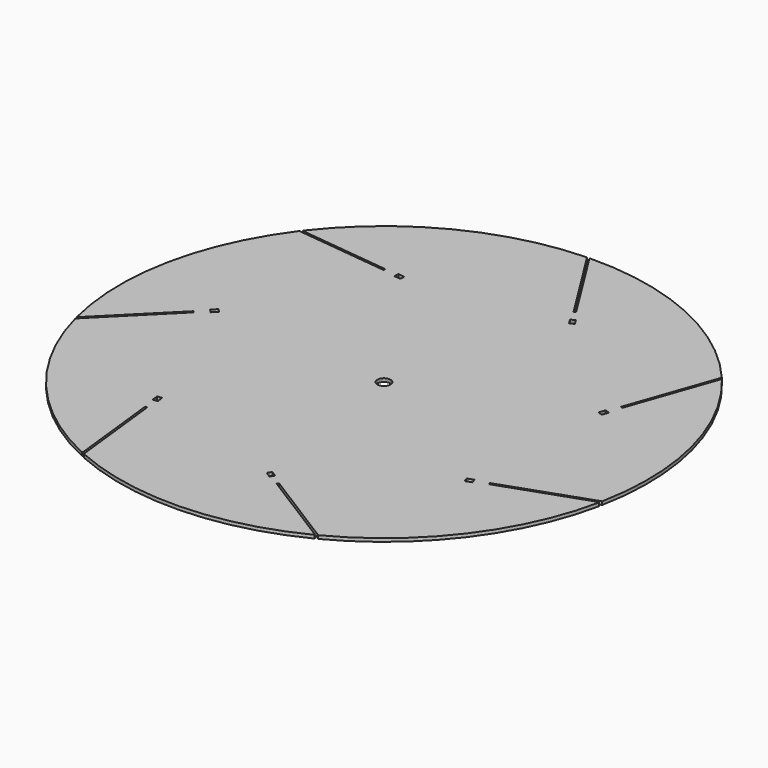
from build123d import *

# Parameters (mm, degrees)
F0_R          = 5
F1_DEPTH      = 1.25
F1_DEPTH_BACK = 1.25


with BuildPart() as f1:
    # F0 (on Top) → F1 (new body, two sides)
    with BuildSketch(Plane.XY) as f1_sk:
        with BuildLine():
            Line((-193.64496, -48.269231), (-144.827721, 0.548008))
            Line((-144.827721, 0.548008), (-143.731706, -0.548008))
            Line((-143.731706, -0.548008), (-193.552665, -50.368296))
            ThreePointArc((-193.552665, -50.368296), (-153.272634, -128.48028), (-83.395599, -181.782841))
            Line((-83.395599, -181.782841), (-82.996864, -181.493909))
            Line((-82.996864, -181.493909), (-90.726667, -112.890004))
            Line((-90.726667, -112.890004), (-89.186413, -112.716459))
            Line((-89.186413, -112.716459), (-81.298203, -182.730495))
            ThreePointArc((-81.298203, -182.730495), (4.886394, -199.940324), (90.127633, -178.541862))
            Line((90.127633, -178.541862), (90.150343, -178.049972))
            Line((90.150343, -178.049972), (31.694198, -141.319541))
            Line((31.694198, -141.319541), (32.518847, -140.007118))
            Line((32.518847, -140.007118), (92.176243, -177.492904))
            ThreePointArc((92.176243, -177.492904), (159.366647, -120.841226), (195.783698, -40.855219))
            Line((195.783698, -40.855219), (195.413283, -40.530774))
            Line((195.413283, -40.530774), (130.249465, -63.33258))
            Line((130.249465, -63.33258), (129.737532, -61.869561))
            Line((129.737532, -61.869561), (196.240878, -38.599537))
            ThreePointArc((196.240878, -38.599537), (193.841344, 49.25378), (154.011425, 127.596237))
            Line((154.011425, 127.596237), (153.526814, 127.508923))
            Line((153.526814, 127.508923), (130.725008, 62.345105))
            Line((130.725008, 62.345105), (129.261989, 62.857037))
            Line((129.261989, 62.857037), (152.532909, 129.360069))
            ThreePointArc((152.532909, 129.360069), (82.350335, 182.259685), (-3.733812, 199.965124))
            Line((-3.733812, 199.965124), (-3.967697, 199.5318))
            Line((-3.967697, 199.5318), (32.762734, 141.075654))
            Line((32.762734, 141.075654), (31.450311, 140.251005))
            Line((31.450311, 140.251005), (-6.034672, 199.908905))
            ThreePointArc((-6.034672, 199.908905), (-91.151376, 178.02033), (-158.666634, 121.756194))
            Line((-158.666634, 121.756194), (-158.473672, 121.303162))
            Line((-158.473672, 121.303162), (-89.869768, 113.573359))
            Line((-89.869768, 113.573359), (-90.043313, 112.033105))
            Line((-90.043313, 112.033105), (-160.057242, 119.922257))
            ThreePointArc((-160.057242, 119.922257), (-196.013462, 39.728035), (-194.119464, -48.137634))
            Line((-194.119464, -48.137634), (-193.64496, -48.269231))
        make_face()
        Polygon((-91.636007, -97.897549), (-89.872168, -97.698812), (-89.312346, -102.667373), (-91.076185, -102.86611), (-92.840024, -103.064847), (-93.399847, -98.096286), align=None, mode=Mode.SUBTRACT)
        Circle(F0_R, mode=Mode.SUBTRACT)
        Polygon((19.405659, -132.682848), (20.350016, -131.179913), (24.583637, -133.840073), (23.63928, -135.343009), (22.694924, -136.845944), (18.461303, -134.185784), align=None, mode=Mode.SUBTRACT)
        Polygon((115.835249, -67.555257), (115.249003, -65.879864), (119.96842, -64.228469), (120.554665, -65.903862), (121.140911, -67.579254), (116.421494, -69.23065), align=None, mode=Mode.SUBTRACT)
        Polygon((-137.208646, 7.071068), (-138.46376, 8.326182), (-134.928226, 11.861716), (-133.673112, 10.606602), (-132.417997, 9.351487), (-135.953531, 5.815953), align=None, mode=Mode.SUBTRACT)
        Polygon((-75.050857, 111.123765), (-75.249594, 109.359926), (-80.218155, 109.919748), (-80.019418, 111.683587), (-79.820681, 113.447426), (-74.85212, 112.887604), align=None, mode=Mode.SUBTRACT)
        Polygon((125.039313, 48.442821), (123.36392, 49.029066), (125.015315, 53.748483), (126.690708, 53.162238), (128.366101, 52.575992), (126.714706, 47.856576), align=None, mode=Mode.SUBTRACT)
        Polygon((40.087004, 127.962466), (38.584068, 127.01811), (35.923908, 131.251731), (37.426843, 132.196087), (38.929779, 133.140444), (41.589939, 128.906823), align=None, mode=Mode.SUBTRACT)
    extrude(amount=F1_DEPTH)
    extrude(f1_sk.sketch, amount=-F1_DEPTH_BACK)


solid = f1.part
